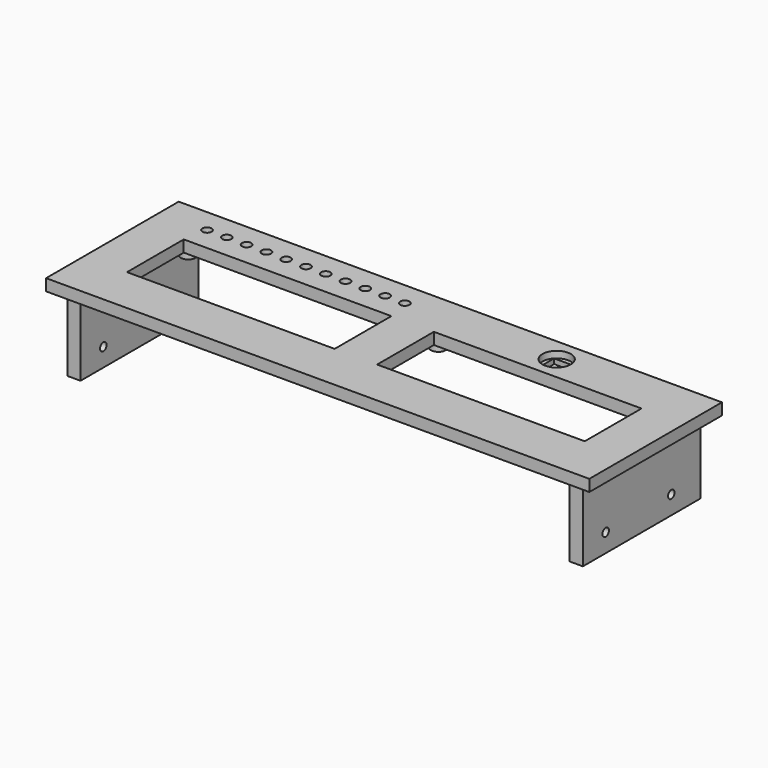
from build123d import *

# Parameters (mm, degrees)
SKETCH_W      = 187.325
SKETCH_H      = 57.15
SKETCH_R      = 1.5875
SKETCH_W_2    = 71.6026
SKETCH_H_2    = 24.4602
PAD_DEPTH     = 4.0132
SKETCH001_R   = 2.54
SKETCH001_R_2 = 1.016
SKETCH001_W   = 168.656
SKETCH001_H   = 4.445
PAD001_DEPTH  = 2.921
SKETCH002_W   = 4.572
SKETCH002_H   = 50.8
PAD002_DEPTH  = 25.4
SKETCH003_R   = 1.389063
HOLE_DEPTH    = 177.8
HOLE_TIPS_R   = 1.389063
SKETCH004_R   = 4.8895
HOLE001_DEPTH = 2.286
SKETCH005_W   = 7.112
SKETCH005_H   = 6.711802
POCKET_DEPTH  = 27.1282


with BuildPart() as part:
    # Sketch → Pad (new body)
    with BuildSketch(Plane.XY):
        Rectangle(SKETCH_W, SKETCH_H)
        with Locations((-77.338766, 20.40255)):
            Circle(SKETCH_R, mode=Mode.SUBTRACT)
        with Locations((-70.516326, 20.40255)):
            Circle(SKETCH_R, mode=Mode.SUBTRACT)
        with Locations((-63.693886, 20.40255)):
            Circle(SKETCH_R, mode=Mode.SUBTRACT)
        with Locations((-56.871446, 20.40255)):
            Circle(SKETCH_R, mode=Mode.SUBTRACT)
        with Locations((-50.049006, 20.40255)):
            Circle(SKETCH_R, mode=Mode.SUBTRACT)
        with Locations((-43.226566, 20.40255)):
            Circle(SKETCH_R, mode=Mode.SUBTRACT)
        with Locations((-36.404126, 20.40255)):
            Circle(SKETCH_R, mode=Mode.SUBTRACT)
        with Locations((-29.581686, 20.40255)):
            Circle(SKETCH_R, mode=Mode.SUBTRACT)
        with Locations((-22.759246, 20.40255)):
            Circle(SKETCH_R, mode=Mode.SUBTRACT)
        with Locations((-15.936806, 20.40255)):
            Circle(SKETCH_R, mode=Mode.SUBTRACT)
        with Locations((-9.114366, 20.40255)):
            Circle(SKETCH_R, mode=Mode.SUBTRACT)
        with Locations((43.213867, 0)):
            Rectangle(SKETCH_W_2, SKETCH_H_2, mode=Mode.SUBTRACT)
        with Locations((-43.036066, 0)):
            Rectangle(SKETCH_W_2, SKETCH_H_2, mode=Mode.SUBTRACT)
    extrude(amount=PAD_DEPTH)

    # Sketch001 (on Face24 of Pad) → Pad001 (join)
    with BuildSketch(Plane(origin=(0, 0, 0), x_dir=(1, 0, 0), z_dir=(0, 0, -1))):
        with Locations((80.666167, -16.1925)):
            Circle(SKETCH001_R)
        with Locations((80.666167, -16.1925)):
            Circle(SKETCH001_R_2, mode=Mode.SUBTRACT)
        with Locations((5.761567, -16.1925)):
            Circle(SKETCH001_R)
        with Locations((5.761567, -16.1925)):
            Circle(SKETCH001_R_2, mode=Mode.SUBTRACT)
        with Locations((-5.583766, -16.1925)):
            Circle(SKETCH001_R)
        with Locations((-5.583766, -16.1925)):
            Circle(SKETCH001_R_2, mode=Mode.SUBTRACT)
        with Locations((-80.488366, -16.1925)):
            Circle(SKETCH001_R)
        with Locations((-80.488366, -16.1925)):
            Circle(SKETCH001_R_2, mode=Mode.SUBTRACT)
        with Locations((0, 15.1257)):
            Rectangle(SKETCH001_W, SKETCH001_H)
        with Locations((-80.488366, 15.1257)):
            Circle(SKETCH001_R_2, mode=Mode.SUBTRACT)
        with Locations((-5.583766, 15.1257)):
            Circle(SKETCH001_R_2, mode=Mode.SUBTRACT)
        with Locations((5.761567, 15.1257)):
            Circle(SKETCH001_R_2, mode=Mode.SUBTRACT)
        with Locations((80.666167, 15.1257)):
            Circle(SKETCH001_R_2, mode=Mode.SUBTRACT)
    extrude(amount=PAD001_DEPTH)

    # Sketch002 (on Face4 of Pad001) → Pad002 (join)
    with BuildSketch(Plane(origin=(0, 0, 0), x_dir=(1, 0, 0), z_dir=(0, 0, -1))):
        with Locations((86.614, 0)):
            Rectangle(SKETCH002_W, SKETCH002_H)
        with Locations((-86.614, 0)):
            Rectangle(SKETCH002_W, SKETCH002_H)
    extrude(amount=PAD002_DEPTH)

    # Sketch003 (on Face15 of Pad002) → Hole (cut)
    with BuildSketch(Plane(origin=(-88.9, 0, 0), x_dir=(0, -1, 0), z_dir=(-1, 0, 0))):
        with Locations((-12.7, -19.05)):
            Circle(SKETCH003_R)
        with Locations((15.56766, -19.05)):
            Circle(SKETCH003_R)
    extrude(amount=-HOLE_DEPTH, mode=Mode.SUBTRACT)

    # Hole tips → Hole tip 1 section 0
    with BuildSketch(Plane(origin=(88.9, 0, 0), x_dir=(0, -1, 0), z_dir=(-1, 0, 0)), mode=Mode.PRIVATE) as hole_tip_1_s0:
        with Locations((-12.7, -19.05)):
            Circle(HOLE_TIPS_R)
    loft([hole_tip_1_s0.sketch, Vertex(89.734633, 12.7, -19.05)], mode=Mode.SUBTRACT)

    # Hole tips → Hole tip 2 section 0
    with BuildSketch(Plane(origin=(88.9, 0, 0), x_dir=(0, -1, 0), z_dir=(-1, 0, 0)), mode=Mode.PRIVATE) as hole_tip_2_s0:
        with Locations((15.56766, -19.05)):
            Circle(HOLE_TIPS_R)
    loft([hole_tip_2_s0.sketch, Vertex(89.734633, -15.56766, -19.05)], mode=Mode.SUBTRACT)

    # Sketch004 (on Face5 of Hole) → Hole001 (cut)
    with BuildSketch(Plane.XY.offset(4.0132)):
        with Locations((43.213867, 20.40255)):
            Circle(SKETCH004_R)
    extrude(amount=-HOLE001_DEPTH, mode=Mode.SUBTRACT)

    # Sketch005 (on Face52 of Hole001) → Pocket (cut, through all)
    with BuildSketch(Plane.XY.offset(1.7272)):
        with Locations((43.213867, 20.40255)):
            Rectangle(SKETCH005_W, SKETCH005_H)
    extrude(amount=-POCKET_DEPTH, mode=Mode.SUBTRACT)


solid = part.part
